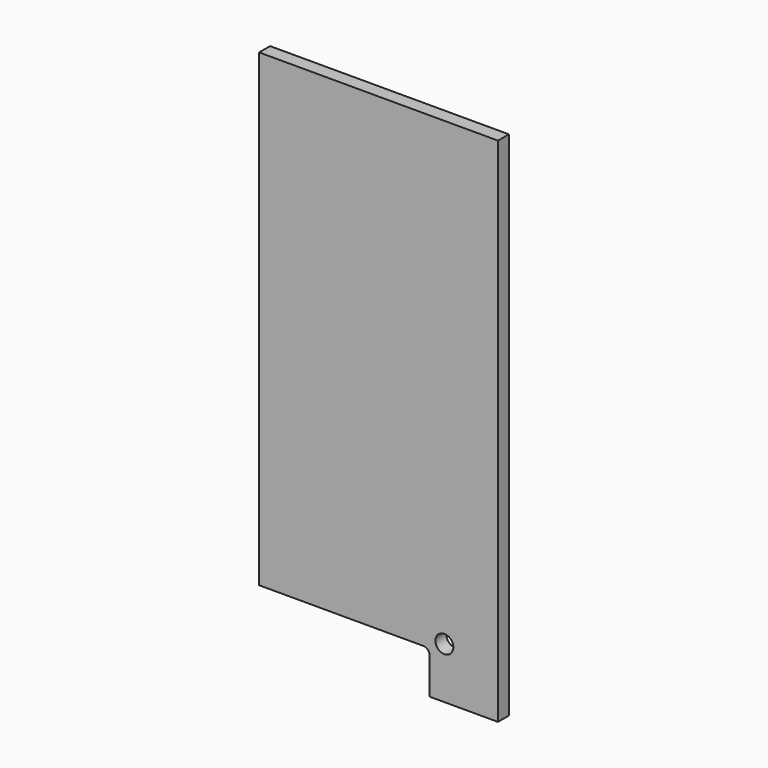
from build123d import *

# Parameters (mm, degrees)
F1_DEPTH = 8
F2_R     = 4
F4_D     = 10.5


with BuildPart() as f1:
    # F0 (on Front) → F1 (new body)
    with BuildSketch(Plane.XZ):
        Polygon((140, 0), (0, 0), (0, -275), (100, -275), (100, -300), (140, -300), align=None)
    extrude(amount=F1_DEPTH)

    # F2
    f2_edges = [f1.edges().sort_by_distance(p)[0] for p in [
        (100, -4, -275),
    ]]
    fillet(f2_edges, radius=F2_R)

    # F4 (through all)
    with Locations(Plane.XZ.offset(8)):
        with Locations((108.6, -270)):
            Hole(F4_D / 2)


solid = f1.part
